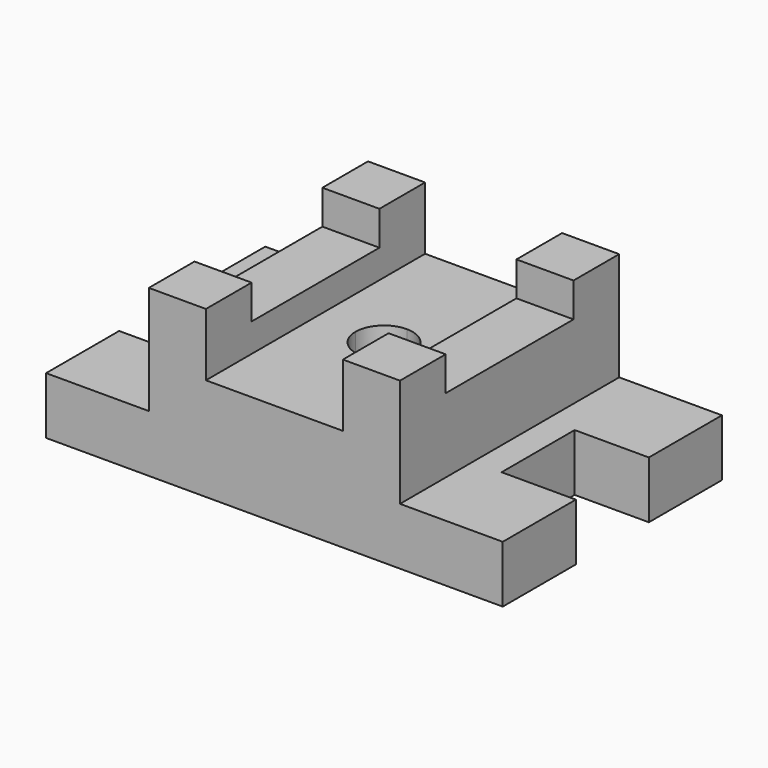
from build123d import *

# Parameters (mm, degrees)
F0_W     = 15.875
F0_H     = 25.4
F1_DEPTH = 31.75
F2_DEPTH = 57.15
F0_W_2   = 31.75
F0_H_2   = 31.75
F3_DEPTH = 92.075
F0_H_3   = 19.05
F4_DEPTH = 73.025


with BuildPart() as f1:
    # F0 (on Top) → F1 (new body)
    with BuildSketch(Plane.XY):
        Polygon((-85.725, 25.4), (-69.85, 25.4), (-69.85, 44.45), (-69.85, 76.2), (-127, 76.2), (-127, 25.4), align=None)
        Polygon((-127, -76.2), (-69.85, -76.2), (-69.85, -44.45), (-69.85, -25.4), (-85.725, -25.4), (-127, -25.4), align=None)
        with Locations((-77.7875, 12.7)):
            Rectangle(F0_W, F0_H)
        with Locations((-77.7875, -12.7)):
            Rectangle(F0_W, F0_H)
    extrude(amount=F1_DEPTH)



with BuildPart() as f1b:
    # F0 (on Top) → F1, piece 2 (new body)
    with BuildSketch(Plane.XY):
        Polygon((69.85, -76.2), (127, -76.2), (127, -25.4), (85.725, -25.4), (69.85, -25.4), (69.85, -44.45), align=None)
        Polygon((85.725, 25.4), (127, 25.4), (127, 76.2), (69.85, 76.2), (69.85, 44.45), (69.85, 25.4), align=None)
        with Locations((77.7875, 12.7)):
            Rectangle(F0_W, F0_H)
        with Locations((77.7875, -12.7)):
            Rectangle(F0_W, F0_H)
    extrude(amount=F1_DEPTH)


with BuildPart() as f2:
    # F0 (on Top) → F2 (new body)
    with BuildSketch(Plane.XY):
        Polygon((-38.1, 44.45), (-38.1, 25.4), (0, 25.4), (0, 76.2), (-38.1, 76.2), align=None)
        Polygon((0, 25.4), (38.1, 25.4), (38.1, 44.45), (38.1, 76.2), (0, 76.2), align=None)
        with BuildLine():
            Line((-38.1, 0), (-15.875, 0))
            ThreePointArc((-15.875, 0), (-11.2253201513, 11.2253201513), (0, 15.875))
            Line((0, 15.875), (0, 25.4))
            Line((0, 25.4), (-38.1, 25.4))
            Line((-38.1, 25.4), (-38.1, 0))
        make_face()
        with BuildLine():
            Line((15.875, 0), (38.1, 0))
            Line((38.1, 0), (38.1, 25.4))
            Line((38.1, 25.4), (0, 25.4))
            Line((0, 25.4), (0, 15.875))
            ThreePointArc((0, 15.875), (11.2253201513, 11.2253201513), (15.875, 0))
        make_face()
        with BuildLine():
            Line((0, -15.875), (0, -25.4))
            Line((0, -25.4), (38.1, -25.4))
            Line((38.1, -25.4), (38.1, 0))
            Line((38.1, 0), (15.875, 0))
            ThreePointArc((15.875, 0), (11.2253201513, -11.2253201513), (0, -15.875))
        make_face()
        with BuildLine():
            Line((-38.1, -25.4), (0, -25.4))
            Line((0, -25.4), (0, -15.875))
            ThreePointArc((0, -15.875), (-11.2253201513, -11.2253201513), (-15.875, 0))
            Line((-15.875, 0), (-38.1, 0))
            Line((-38.1, 0), (-38.1, -25.4))
        make_face()
        Polygon((-38.1, -76.2), (0, -76.2), (0, -25.4), (-38.1, -25.4), (-38.1, -44.45), align=None)
        Polygon((0, -76.2), (38.1, -76.2), (38.1, -44.45), (38.1, -25.4), (0, -25.4), align=None)
    extrude(amount=F2_DEPTH)


with BuildPart() as f1_1:
    add(f1.part)

    add(f1b.part)  # F3 merges F1b

    add(f2.part)  # F3 merges F2
    # F0 (on Top) → F3 (join)
    with BuildSketch(Plane.XY):
        with Locations((-53.975, 60.325)):
            Rectangle(F0_W_2, F0_H_2)
        with Locations((-53.975, -60.325)):
            Rectangle(F0_W_2, F0_H_2)
        with Locations((53.975, -60.325)):
            Rectangle(F0_W_2, F0_H_2)
        with Locations((53.975, 60.325)):
            Rectangle(F0_W_2, F0_H_2)
    extrude(amount=F3_DEPTH)

    # F0 (on Top) → F4 (join)
    with BuildSketch(Plane.XY):
        with Locations((-53.975, 34.925)):
            Rectangle(F0_W_2, F0_H_3)
        with Locations((-53.975, 12.7)):
            Rectangle(F0_W_2, F0_H)
        with Locations((-53.975, -12.7)):
            Rectangle(F0_W_2, F0_H)
        with Locations((-53.975, -34.925)):
            Rectangle(F0_W_2, F0_H_3)
        with Locations((53.975, -34.925)):
            Rectangle(F0_W_2, F0_H_3)
        with Locations((53.975, -12.7)):
            Rectangle(F0_W_2, F0_H)
        with Locations((53.975, 12.7)):
            Rectangle(F0_W_2, F0_H)
        with Locations((53.975, 34.925)):
            Rectangle(F0_W_2, F0_H_3)
    extrude(amount=F4_DEPTH)


solid = f1_1.part
